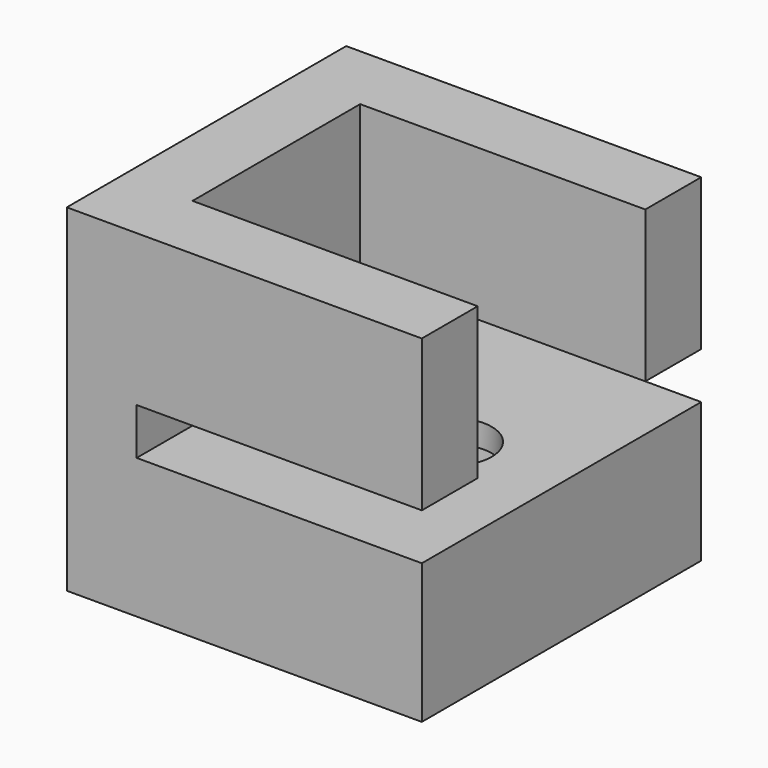
from build123d import *

# Parameters (mm, degrees)
PAD_DEPTH    = 6.5
SKETCH001_W  = 15
SKETCH001_H  = 2
PAD001_DEPTH = 3
SKETCH002_W  = 15.25
SKETCH002_H  = 15
SKETCH002_R  = 1.75
PAD002_DEPTH = 6
SKETCH003_R  = 3
POCKET_DEPTH = 5


with BuildPart() as part:
    # Sketch → Pad (new body)
    with BuildSketch(Plane.XY):
        Polygon((0, 9), (12.25, 9), (12.25, 12), (-3, 12), (-3, -3), (12.25, -3), (12.25, 0), (0, 0), align=None)
    extrude(amount=PAD_DEPTH)

    # Sketch001 (on Face5 of Pad) → Pad001 (join)
    with BuildSketch(Plane(origin=(-3, 0, 0), x_dir=(0, -1, 0), z_dir=(-1, 0, 0))):
        with Locations((-4.5, -1)):
            Rectangle(SKETCH001_W, SKETCH001_H)
    extrude(amount=-PAD001_DEPTH)

    # Sketch002 (on Face11 of Pad001) → Pad002 (join)
    with BuildSketch(Plane(origin=(0, 0, -2), x_dir=(1, 0, 0), z_dir=(0, 0, -1))):
        with Locations((4.625, -4.5)):
            Rectangle(SKETCH002_W, SKETCH002_H)
        with Locations((7.5, -4.5)):
            Circle(SKETCH002_R, mode=Mode.SUBTRACT)
    extrude(amount=PAD002_DEPTH)

    # Sketch003 (on Face22 of Pad002) → Pocket (cut)
    with BuildSketch(Plane(origin=(0, 0, -8), x_dir=(1, 0, 0), z_dir=(0, 0, -1))):
        with Locations((7.5, -4.5)):
            Circle(SKETCH003_R)
    extrude(amount=-POCKET_DEPTH, mode=Mode.SUBTRACT)


solid = part.part
